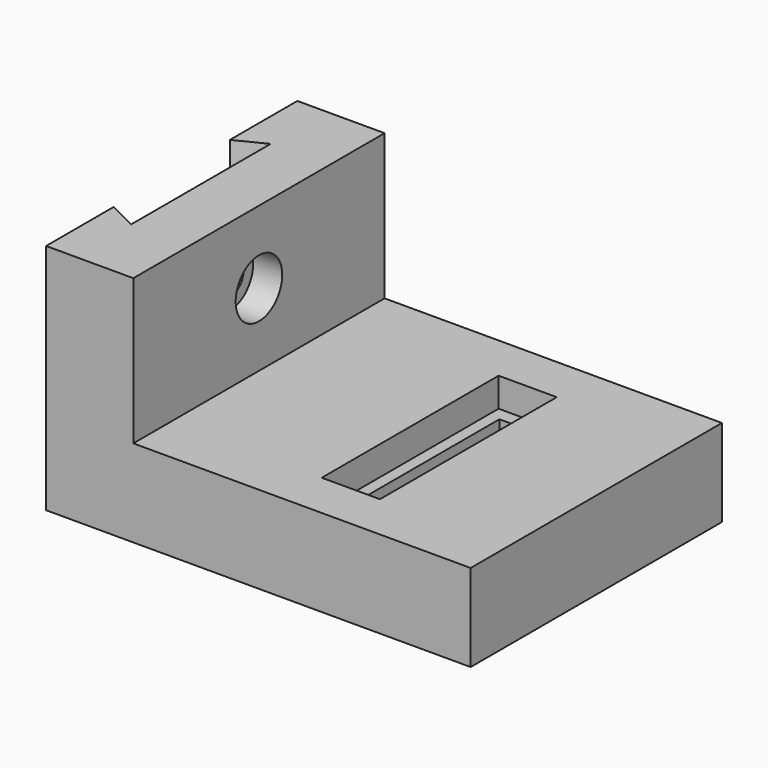
from build123d import *

# Parameters (mm, degrees)
SKETCH013_W     = 58
SKETCH013_H     = 54
SKETCH013_W_2   = 10
SKETCH013_H_2   = 38
PAD008_DEPTH    = 15
PAD009_DEPTH    = 40
SKETCH012_W     = 10
SKETCH012_H     = 38
SKETCH012_W_2   = 6
SKETCH012_H_2   = 33.513506
PAD007_DEPTH    = 10
SKETCH011_R     = 5
POCKET005_DEPTH = 5
SKETCH014_R     = 3
POCKET004_DEPTH = 10


with BuildPart() as part:
    # Sketch013 → Pad008 (new body)
    with BuildSketch(Plane.XY):
        with Locations((29, 27)):
            Rectangle(SKETCH013_W, SKETCH013_H)
        with Locations((31, 27)):
            Rectangle(SKETCH013_W_2, SKETCH013_H_2, mode=Mode.SUBTRACT)
    extrude(amount=PAD008_DEPTH)

    # Sketch015 → Pad009 (new body)
    with BuildSketch(Plane.XY):
        Polygon((-15, 0), (-15, 14.5), (-10, 12), (-10, 42), (-15, 39.5), (-15, 54), (0, 54), (0, 0), align=None)
    extrude(amount=PAD009_DEPTH)

    # Sketch012 → Pad007 (new body)
    with BuildSketch(Plane.XY):
        with Locations((31, 27)):
            Rectangle(SKETCH012_W, SKETCH012_H)
        with Locations((31, 26.915923)):
            Rectangle(SKETCH012_W_2, SKETCH012_H_2, mode=Mode.SUBTRACT)
    extrude(amount=PAD007_DEPTH)

    # Sketch011 → Pocket005 (cut)
    with BuildSketch(Plane.YZ):
        with Locations((27, 27.5)):
            Circle(SKETCH011_R)
    extrude(amount=-POCKET005_DEPTH, mode=Mode.SUBTRACT)

    # Sketch014 → Pocket004 (cut)
    with BuildSketch(Plane.YZ):
        with Locations((27, 27.5)):
            Circle(SKETCH014_R)
    extrude(amount=-POCKET004_DEPTH, mode=Mode.SUBTRACT)


solid = part.part
